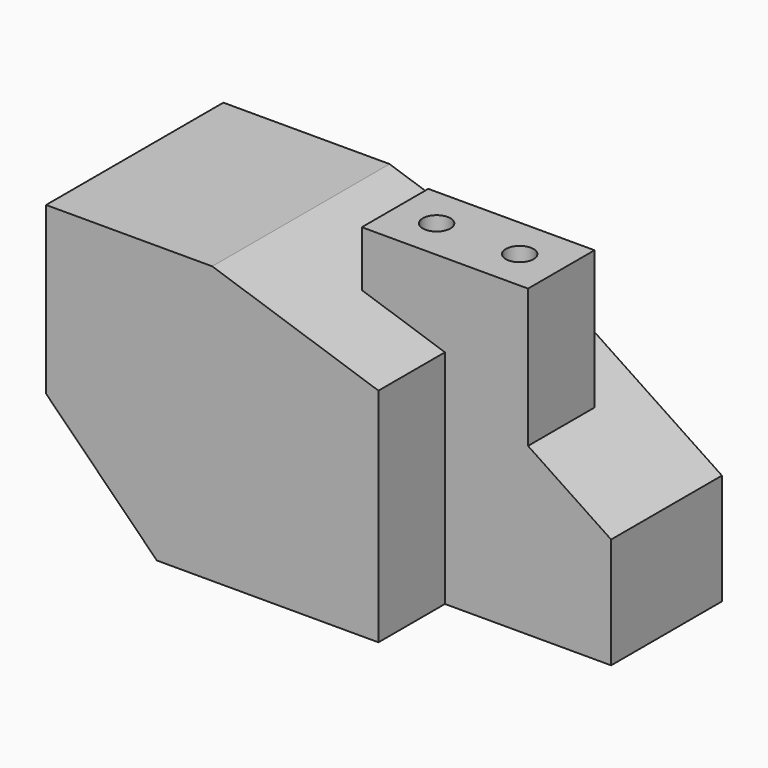
from build123d import *

# Parameters (mm, degrees)
F1_DEPTH  = 50.8
F2_W      = 38.1
F2_H      = 19.05
F3_DEPTH  = 127
F5_DEPTH  = 50.801
F7_DEPTH  = 31.751
F9_DEPTH  = 44.45
F10_R     = 3.175
F11_DEPTH = 69.851


with BuildPart() as f1:
    # F0 (on Front) → F1 (new body)
    with BuildSketch(Plane.XZ):
        Polygon((0, 38.1), (0, 0), (25.4, -25.4), (76.2, -25.4), (114.3, -25.4), (114.3, 38.1), align=None)
    extrude(amount=-F1_DEPTH)

    # F2 (on Top) → F3 (cut, symmetric)
    with BuildSketch(Plane.XY):
        with Locations((95.25, 9.525)):
            Rectangle(F2_W, F2_H)
    extrude(amount=F3_DEPTH, both=True, mode=Mode.SUBTRACT)

    # F4 (on Front) → F5 (cut, through all)
    with BuildSketch(Plane.XZ):
        Polygon((76.2, 25.4), (76.2, 38.1), (38.1, 38.1), align=None)
    extrude(amount=-F5_DEPTH, mode=Mode.SUBTRACT)

    # F6 (on face) → F7 (cut, through all)
    with BuildSketch(Plane.XZ.offset(-19.05)):
        Polygon((76.2, 25.4), (114.3, 0), (114.3, 38.1), (76.2, 38.1), align=None)
    extrude(amount=-F7_DEPTH, mode=Mode.SUBTRACT)

    # F8 (on Top) → F9 (join)
    with BuildSketch(Plane.XY):
        Polygon((57.15, 19.05), (76.2, 19.05), (95.25, 19.05), (95.25, 38.1), (57.15, 38.1), align=None)
    extrude(amount=F9_DEPTH)

    # F10 (on face) → F11 (cut, through all)
    with BuildSketch(Plane.XY.offset(44.45)):
        with Locations((66.675, 28.575)):
            Circle(F10_R)
        with Locations((85.725, 28.575)):
            Circle(F10_R)
    extrude(amount=-F11_DEPTH, mode=Mode.SUBTRACT)


solid = f1.part
